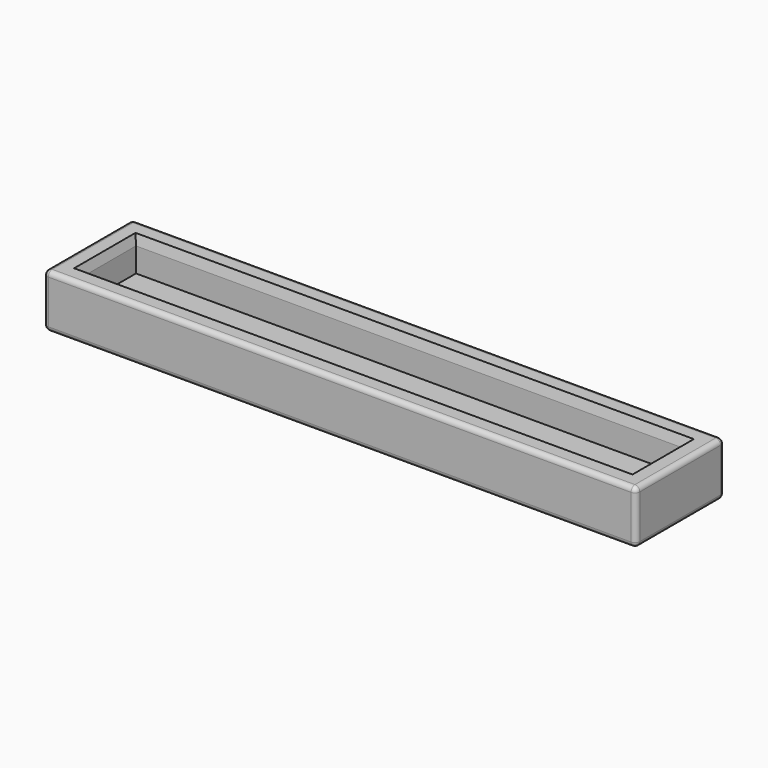
from build123d import *

# Parameters (mm, degrees)
SKETCH002_W      = 61
SKETCH002_H      = 11.4
SKETCH002_W_2    = 57
SKETCH002_H_2    = 7.4
PAD002_DEPTH     = 3.5
SKETCH003_W      = 61
SKETCH003_H      = 11.4
PAD003_DEPTH     = 2
CHAMFER001_SIZE2 = 1
CHAMFER001_SIZE  = 0.25
FILLET_R         = 0.5


with BuildPart() as part:
    # Sketch002 → Pad002 (new body)
    with BuildSketch(Plane.XY):
        Rectangle(SKETCH002_W, SKETCH002_H)
        Rectangle(SKETCH002_W_2, SKETCH002_H_2, mode=Mode.SUBTRACT)
    extrude(amount=PAD002_DEPTH)

    # Sketch003 (on Face9 of Pad002) → Pad003 (join)
    with BuildSketch(Plane(origin=(0, 0, 0), x_dir=(1, 0, 0), z_dir=(0, 0, -1))):
        Rectangle(SKETCH003_W, SKETCH003_H)
    extrude(amount=PAD003_DEPTH)

    # Chamfer001
    chamfer001_edges = [part.edges().sort_by_distance(p)[0] for p in [
        (0, 3.7, 3.5),
        (-28.5, 0, 3.5),
        (0, -3.7, 3.5),
        (28.5, 0, 3.5),
    ]]
    chamfer001_side = part.faces().sort_by_distance((29.879439, 0, 3.5))[0]
    chamfer(chamfer001_edges, length=CHAMFER001_SIZE, length2=CHAMFER001_SIZE2, reference=chamfer001_side)

    # Fillet
    fillet_edges = [part.edges().sort_by_distance(p)[0] for p in [
        (30.5, -5.7, 0.75),
        (30.5, 0, -2),
        (30.5, 5.7, 0.75),
        (30.5, 0, 3.5),
        (-30.5, -5.7, 0.75),
        (0, -5.7, -2),
        (0, -5.7, 3.5),
        (-30.5, 5.7, 0.75),
        (-30.5, 0, -2),
        (-30.5, 0, 3.5),
        (0, 5.7, -2),
        (0, 5.7, 3.5),
    ]]
    fillet(fillet_edges, radius=FILLET_R)


solid = part.part
